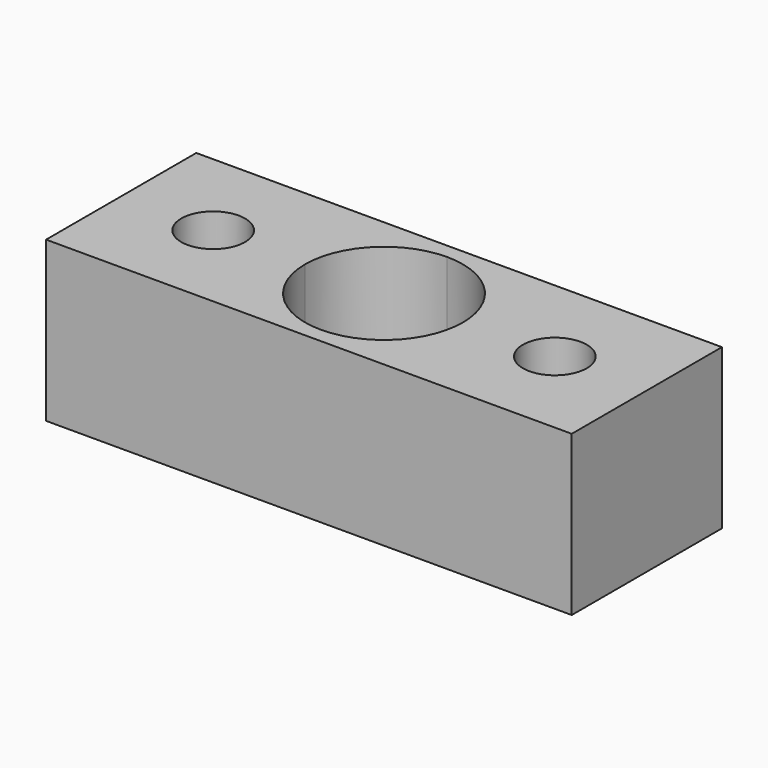
from build123d import *

# Parameters (mm, degrees)
F0_R     = 1.7
F1_DEPTH = 8.5


with BuildPart() as f1:
    # F0 (on Top) → F1 (new body)
    with BuildSketch(Plane.XY):
        with BuildLine():
            Line((-41.953693, 17.904851), (-41.953693, 18.704851))
            ThreePointArc((-41.953693, 18.704851), (-44.923541, 19.935002), (-46.153693, 22.904851))
            Line((-46.153693, 22.904851), (-48.153693, 22.904851))
            Line((-48.153693, 22.904851), (-48.153693, 21.230535))
            Line((-48.153693, 21.230535), (-51.053693, 19.556219))
            Line((-51.053693, 19.556219), (-53.953693, 21.230535))
            Line((-53.953693, 21.230535), (-53.953693, 22.904851))
            Line((-53.953693, 22.904851), (-55.953693, 22.904851))
            Line((-55.953693, 22.904851), (-55.953693, 17.904851))
            Line((-55.953693, 17.904851), (-41.953693, 17.904851))
        make_face()
        with BuildLine():
            Line((-48.153693, 21.230535), (-48.153693, 22.904851))
            Line((-48.153693, 22.904851), (-49.353693, 22.904851))
            ThreePointArc((-49.353693, 22.904851), (-51.053693, 21.204851), (-52.753693, 22.904851))
            Line((-52.753693, 22.904851), (-53.953693, 22.904851))
            Line((-53.953693, 22.904851), (-53.953693, 21.230535))
            Line((-53.953693, 21.230535), (-51.053693, 19.556219))
            Line((-51.053693, 19.556219), (-48.153693, 21.230535))
        make_face()
        with BuildLine():
            Line((-49.353693, 22.904851), (-48.153693, 22.904851))
            Line((-48.153693, 22.904851), (-48.153693, 24.579166))
            Line((-48.153693, 24.579166), (-51.053693, 26.253482))
            Line((-51.053693, 26.253482), (-53.953693, 24.579166))
            Line((-53.953693, 24.579166), (-53.953693, 22.904851))
            Line((-53.953693, 22.904851), (-52.753693, 22.904851))
            ThreePointArc((-52.753693, 22.904851), (-51.053693, 24.604851), (-49.353693, 22.904851))
        make_face()
        with BuildLine():
            ThreePointArc((-46.153693, 22.904851), (-44.923541, 25.874699), (-41.953693, 27.104851))
            Line((-41.953693, 27.104851), (-41.953693, 27.904851))
            Line((-41.953693, 27.904851), (-55.953693, 27.904851))
            Line((-55.953693, 27.904851), (-55.953693, 22.904851))
            Line((-55.953693, 22.904851), (-53.953693, 22.904851))
            Line((-53.953693, 22.904851), (-53.953693, 24.579166))
            Line((-53.953693, 24.579166), (-51.053693, 26.253482))
            Line((-51.053693, 26.253482), (-48.153693, 24.579166))
            Line((-48.153693, 24.579166), (-48.153693, 22.904851))
            Line((-48.153693, 22.904851), (-46.153693, 22.904851))
        make_face()
        with BuildLine():
            ThreePointArc((-41.953693, 27.104851), (-38.983844, 25.874699), (-37.753693, 22.904851))
            ThreePointArc((-37.753693, 22.904851), (-38.983844, 19.935002), (-41.953693, 18.704851))
            Line((-41.953693, 18.704851), (-41.953693, 17.904851))
            Line((-41.953693, 17.904851), (-27.953693, 17.904851))
            Line((-27.953693, 17.904851), (-27.953693, 22.904851))
            Line((-27.953693, 22.904851), (-27.953693, 27.904851))
            Line((-27.953693, 27.904851), (-41.953693, 27.904851))
            Line((-41.953693, 27.904851), (-41.953693, 27.104851))
        make_face()
        Polygon((-35.753693, 21.230535), (-35.753693, 24.579166), (-32.853693, 26.253482), (-29.953693, 24.579166), (-29.953693, 21.230535), (-32.853693, 19.556219), align=None, mode=Mode.SUBTRACT)
        Polygon((-32.853693, 26.253482), (-35.753693, 24.579166), (-35.753693, 21.230535), (-32.853693, 19.556219), (-29.953693, 21.230535), (-29.953693, 24.579166), align=None)
        with Locations((-32.853693, 22.904851)):
            Circle(F0_R, mode=Mode.SUBTRACT)
    extrude(amount=F1_DEPTH)


solid = f1.part
